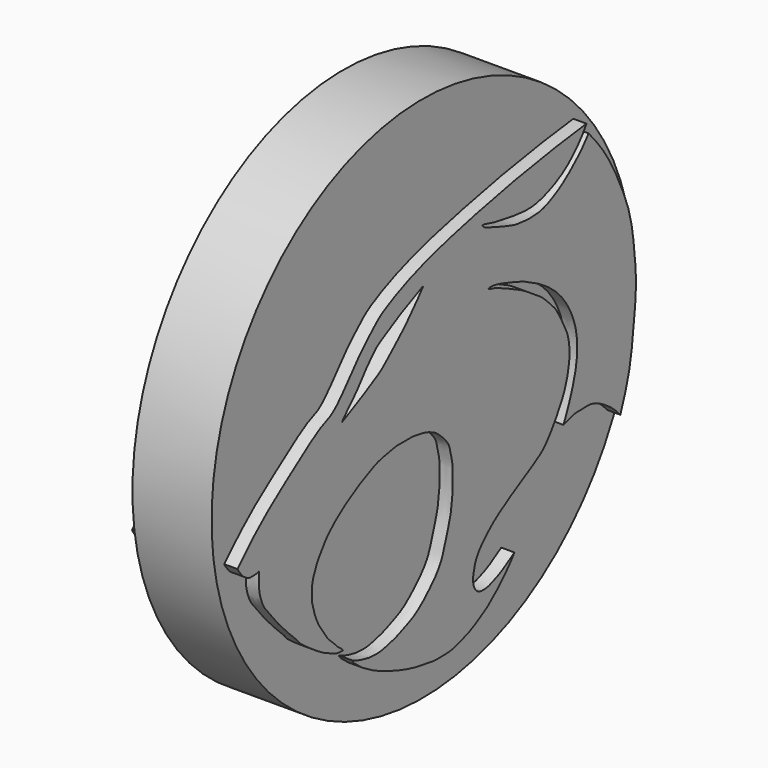
from build123d import *

# Parameters (mm, degrees)
F1_DEPTH = 10
F0_R     = 50
F2_DEPTH = 7.5


with BuildPart() as f1:
    # F0 (on Right) → F1 (new body, symmetric)
    with BuildSketch(Plane.YZ):
        with BuildLine():
            add(Edge.make_bspline(
                [(-46.9949096441, -8.5397260264), (-45.1865095141, -6.6783093338), (-41.3811869914, -2.7614268105), (-33.8168696929, 2.6229560464), (-27.0786754137, 7.4963951549), (-23.8854254535, 8.0069827377), (-18.1040834328, 15.7661420769), (-14.84453873, 18.3623675441), (-13.1457833889, 20.2496303167), (-3.9805020786, 24.6543515328), (10.5653984604, 28.0217982333), (20.4604847506, 30.0118615667), (30.6736597016, 31.5866929761), (34.2451205098, 32.0004458973), (35.716611892, 32.1709178388)],
                knots=[0, 0, 0, 0, 0.0860057309, 0.1809773952, 0.2664828043, 0.3207983808, 0.4139995245, 0.476414252, 0.5219500164, 0.6167002951, 0.7366074547, 0.8357417736, 0.9323233328, 1, 1, 1, 1], degree=3))
            add(Edge.make_bspline(
                [(-41.8407022953, -10.9764672816), (-42.011972947, -11.0300869894), (-42.3824446137, -11.1460705647), (-43.1120650038, -11.2119420008), (-44.1300690633, -11.2340797485), (-44.7999854131, -10.9120550587), (-45.5991673999, -10.4202866341), (-46.1582686433, -9.7777046573), (-46.7759576918, -8.9904138866), (-46.9309963826, -8.6712842552), (-46.9949096441, -8.5397260264)],
                knots=[0, 0, 0, 0, 0.1052085384, 0.2275742058, 0.3692557355, 0.4915784343, 0.6265586138, 0.76017704, 0.9011352104, 1, 1, 1, 1], degree=3))
            add(Edge.make_bspline(
                [(-41.8407022953, -10.9764672816), (-41.8341249623, -11.3176582505), (-41.81874387, -12.115533277), (-41.9665438521, -14.0897429419), (-41.3736082418, -16.1839885258), (-40.6133392349, -17.7397304615), (-38.723592279, -19.9236732982), (-36.3733657196, -22.8487490511), (-32.5591001938, -26.3641430483), (-32.321126962, -26.941816602), (-29.9160617333, -28.7092923548), (-28.2281948479, -29.8134951767), (-26.71312224, -30.7951957621), (-25.188508354, -31.5000404809), (-23.9332516763, -32.0096383535), (-23.3031822027, -32.2566901232), (-21.9142737556, -32.3418391375), (-21.9519048395, -32.2647518571), (-21.9569356223, -32.2544462979)],
                knots=[0, 0, 0, 0, 0.0499044046, 0.1167014423, 0.1864196679, 0.2484382866, 0.326668276, 0.4243014673, 0.5290578789, 0.5679826782, 0.6471835664, 0.7177942679, 0.780629253, 0.8428831749, 0.8964565763, 0.9398507216, 0.9919588297, 1, 1, 1, 1], degree=3))
            add(Edge.make_bspline(
                [(-21.9569356223, -32.2544462979), (-22.0136745442, -32.1863039563), (-22.1492778298, -32.0234470478), (-22.5825677398, -31.6949618212), (-23.0405521358, -31.2790082979), (-23.3785394305, -31.1205890044), (-23.8355350598, -30.5324852979), (-24.624392841, -29.8022330094), (-25.7039450212, -28.8000723377), (-26.4684137836, -27.5631120302), (-27.0132402918, -26.7726727204), (-27.7291225993, -25.8001754062), (-28.3747986939, -24.4195652907), (-28.7737260133, -23.373235961), (-29.0848020083, -22.0518247959), (-29.3961128286, -21.1999266746), (-29.3569727633, -19.8008486065), (-29.3884260537, -18.6760795067), (-29.0361968009, -17.1819238611), (-28.4992816351, -16.0619614135), (-28.160346331, -15.1830376446), (-27.5569693717, -14.2220358383), (-27.0381457977, -13.4867578842), (-26.4768234988, -12.7039040697), (-25.7692610413, -11.7896975651), (-24.7946939121, -10.8650188003), (-23.846876871, -9.9467431325), (-22.8594563733, -9.2314595342), (-21.9693262388, -8.5729547262), (-21.4976428975, -8.2438144102), (-21.2784744799, -8.0908788368)],
                knots=[0, 0, 0, 0, 0.0188209692, 0.0449812082, 0.0725585715, 0.0936804078, 0.1230009467, 0.1597912255, 0.2028683891, 0.245081177, 0.2793331757, 0.3178191472, 0.3610684489, 0.3989553008, 0.4391615023, 0.4730176081, 0.5136965394, 0.5516728843, 0.5948997611, 0.6340909365, 0.6682031277, 0.7053225622, 0.7388019377, 0.7729702597, 0.8107617658, 0.8516382959, 0.8921208689, 0.931070976, 0.967972019, 1, 1, 1, 1], degree=3))
            add(Edge.make_bspline(
                [(-19.8450013995, -34.8139628768), (-19.7185062407, -34.876218507), (-19.4131390432, -35.0265074786), (-18.5229801629, -35.3862704112), (-17.7755388362, -35.5872702932), (-16.7215347537, -35.8508575759), (-15.4754018478, -36.0953253551), (-13.1345803964, -36.1753048072), (-11.3713684924, -35.6641192829), (-9.5819381115, -35.3145024709), (-7.4454097997, -34.3577378191), (-4.4407839955, -33.2460274408), (-1.2201776421, -30.1080537341), (-0.0072972184, -28.8194670373), (1.2588261701, -27.0402333734), (2.0411797535, -24.8251535183), (2.8348032477, -22.3050380313), (3.1735542516, -21.187636971), (3.6039520772, -19.767424856), (3.7348464629, -18.2911424217), (4.0799028106, -16.3076924965), (3.9971592551, -14.350355498), (4.0823738465, -12.6014811177), (3.8443785981, -10.8841740809), (3.4697242808, -9.8407844279), (3.3507827794, -8.6676684448), (2.7687866794, -7.6169503203), (1.8772837154, -6.5367323036), (0.80556868, -5.6014558866), (0.0269472162, -4.8969374244), (-0.8413586407, -4.4904215601), (-2.0463112139, -3.9315785347), (-3.2719651418, -3.6582041807), (-4.3271580596, -3.5137260985), (-5.4392375343, -3.2860383792), (-6.4861829662, -3.3181433104), (-7.4816138182, -3.2973277432), (-8.3784882725, -3.3469460023), (-9.2792585021, -3.2800958522), (-10.6107892085, -3.5404966146), (-11.8290268646, -3.7967407101), (-13.2195119888, -4.0283952455), (-14.5629692873, -4.501119684), (-15.344670968, -4.9222894638), (-16.1960259502, -5.3223362366), (-17.3693464423, -5.8571471987), (-18.3101065883, -6.2931804581), (-19.3417553441, -6.8794948043), (-20.2587019395, -7.485975121), (-20.934856869, -7.8870534136), (-21.2784744799, -8.0908788368)],
                knots=[0, 0, 0, 0, 0.012029875, 0.0290408682, 0.0447557759, 0.0625611461, 0.0825413489, 0.1091807464, 0.1330956428, 0.1564029344, 0.1828033795, 0.2147004871, 0.2514677921, 0.2750643316, 0.3001022695, 0.3276141276, 0.3558461959, 0.3749281161, 0.3957056566, 0.4172156899, 0.4420273442, 0.4666244715, 0.4899965406, 0.5128366047, 0.5312898552, 0.5499416442, 0.5689812673, 0.5898124568, 0.6108021246, 0.6285487242, 0.6455553525, 0.6657543574, 0.685439015, 0.7035318223, 0.7220993031, 0.7400744675, 0.7575510807, 0.7739904803, 0.7906056376, 0.8108640343, 0.8305960109, 0.8515182006, 0.872366538, 0.8887355969, 0.905658033, 0.9255134602, 0.9435624233, 0.9624758392, 0.9809304615, 1, 1, 1, 1], degree=3))
            add(Edge.make_bspline(
                [(-19.8450013995, -34.8139628768), (-19.7374205695, -35.0119797403), (-19.4855166215, -35.4756425477), (-18.3328557613, -36.2345459846), (-17.8879734461, -36.7258473877), (-16.8877806273, -37.3571387981), (-15.2585990412, -38.3724478729), (-13.5689798665, -39.1537790402), (-11.445609387, -39.9767051031), (-9.1417842875, -40.9378405143), (-7.0374148706, -41.5050327916), (-5.1388028864, -42.0891794865), (-3.1148436798, -42.3305825093), (-1.08222467, -42.7488068974), (-0.2761757803, -42.7699033821), (0.6027997816, -42.8386778123), (1.7602135125, -42.7853124971), (3.359095902, -42.7931217077), (5.0847187776, -42.3395543841), (6.3524551814, -41.9462806805), (7.9519694684, -41.3531608693), (9.1844755593, -40.7696993371), (10.5804546591, -39.9187123268), (12.2465876355, -38.9979108648), (13.0258978883, -38.2185004738), (14.3370916994, -37.281124161), (15.43573145, -36.1013590703), (16.3188868066, -35.2668100957), (17.2943699823, -34.1682907241), (18.0223190994, -33.3146172614), (18.440097497, -32.7379976379), (18.6446215957, -32.4557125568)],
                knots=[0, 0, 0, 0, 0.0244335988, 0.0572120516, 0.0805070921, 0.11057214, 0.1500259365, 0.1889626865, 0.2317141018, 0.2767418357, 0.3186080564, 0.3582219123, 0.3994665181, 0.439924396, 0.4651710096, 0.4910340954, 0.5215131305, 0.5576413458, 0.5953146357, 0.6283696191, 0.6649861824, 0.6981618293, 0.734713303, 0.7735246182, 0.8033723873, 0.8390794333, 0.8751639168, 0.9066429836, 0.940777944, 0.9710077455, 1, 1, 1, 1], degree=3))
            add(Edge.make_bspline(
                [(18.6446215957, -32.4557125568), (18.1953846299, -32.7050513514), (17.330794032, -33.1849227642), (16.2962930899, -33.9352074746), (14.9144349909, -34.6946790213), (13.5449930871, -35.1990856231), (12.5233291405, -35.6322351656), (11.0693696923, -35.7488526863), (10.1946596303, -35.6294285886), (9.3598250953, -34.9906974596), (8.9115414769, -34.0801600591), (8.762968482, -32.7446972737), (9.0998633156, -31.3510082116), (9.5130426733, -29.6586909186), (11.159237953, -27.6082233983), (12.3126544745, -26.5485399508), (13.7743125225, -25.2177193296), (15.9854579261, -23.7582333283), (18.231222294, -22.3711280334), (20.9542508803, -20.8244624395), (24.0834920949, -19.0748692722), (25.8887959776, -17.7335162691), (28.0626115058, -14.826855297), (29.6492980848, -12.0869837947), (30.7670293343, -9.9187941609), (31.6515394023, -6.4767904303), (31.7378659034, -4.0472404692), (31.4764003558, -1.6959110666), (30.7428376608, 0.0154886073), (29.68247586, 2.0514555196), (28.5453626857, 4.1403951782), (27.1601940652, 5.5303279084), (25.4615601001, 7.3101472095), (23.8516714201, 8.3687035611), (22.1212132433, 9.4859313867), (20.9820241673, 10.3111072803), (18.968921412, 11.3297847977), (17.3550180861, 12.1219396728), (15.3978939833, 12.9410398286), (14.1863109635, 13.5957187088), (12.0297375524, 14.0081292044), (12.8251158473, 14.1270221143), (13.1402416155, 14.1741270199)],
                knots=[0, 0, 0, 0, 0.0220602841, 0.0424566892, 0.0650940063, 0.0867880185, 0.1059413026, 0.1273947334, 0.1442914998, 0.1620751118, 0.1800709144, 0.2006498195, 0.2220505365, 0.2459281452, 0.2748240685, 0.2975677103, 0.3225380213, 0.3518773215, 0.3811895627, 0.4134275014, 0.447274674, 0.4744080727, 0.5084478962, 0.540604049, 0.5688867413, 0.6024876646, 0.6310180533, 0.6581801038, 0.6826891632, 0.7100233831, 0.737688893, 0.7630597385, 0.7910557539, 0.8164707729, 0.8418783121, 0.8635415208, 0.8901993122, 0.9149924241, 0.9405843502, 0.9637477986, 0.9856370197, 1, 1, 1, 1], degree=3))
            add(Edge.make_bspline(
                [(13.1402416155, 14.1741270199), (13.5389705225, 14.1343313882), (14.5383684854, 14.0345852384), (17.536939577, 13.0357277274), (20.5471290032, 12.0878841058), (25.2322332229, 9.7508079751), (29.8245938325, 6.237300673), (33.4950401396, 0.0612717381), (33.8292015977, -7.2282981918), (31.1266285063, -14.0718313867), (30.4923876434, -15.4376312004), (30.2781797945, -15.8989150077)],
                knots=[0, 0, 0, 0, 0.0618421525, 0.1550048671, 0.2513291511, 0.3717151644, 0.500292753, 0.6398972142, 0.7851435176, 0.9274345953, 1, 1, 1, 1], degree=3))
            add(Edge.make_bspline(
                [(30.2781797945, -15.8989150077), (30.7351845425, -15.7711004615), (31.6386675293, -15.5184154105), (32.9391592278, -15.0095838303), (34.2909482899, -15.0958970933), (35.9953581484, -14.9601762331), (37.3922505182, -15.1273815162), (39.0462535643, -15.8608992827), (40.4687101653, -16.791159372), (41.7184321478, -17.6571406388), (43.0158964071, -18.8920748001), (43.5187021893, -19.4449681858), (43.7377616763, -19.6858495474)],
                knots=[0, 0, 0, 0, 0.0973416727, 0.1924412068, 0.2872999581, 0.3933431061, 0.4903060247, 0.5992160891, 0.7056690593, 0.8073651993, 0.9160739949, 1, 1, 1, 1], degree=3))
            add(Edge.make_bspline(
                [(43.7377616763, -19.6858495474), (43.9491483272, -19.1489277247), (44.4632616117, -17.8430805314), (45.8522664238, -13.6103274199), (46.5234941705, -9.440423961), (46.9024362294, -5.8187394647), (47.6138354218, -0.0713023415), (47.3256670645, 3.8872736921), (47.0620083598, 6.2735597037), (46.6434870825, 10.1299675639), (45.693950312, 14.2216928463), (43.7618611505, 18.7690680823), (41.7199535731, 22.9829161023), (39.2141360272, 26.8593902987), (36.9838699889, 29.4603870247), (36.5444757044, 30.0240926445), (36.2193994224, 30.3401611745)],
                knots=[0, 0, 0, 0, 0.0513976966, 0.1297992163, 0.2066567199, 0.2781448668, 0.3680218632, 0.4418347281, 0.4989467141, 0.5711428306, 0.6482689238, 0.7307151072, 0.8117709017, 0.8930870947, 0.959897405, 1, 1, 1, 1], degree=3))
            add(Edge.make_bspline(
                [(36.2193994224, 30.3401611745), (36.0955725051, 30.174365429), (35.8042581536, 29.7843155015), (34.9728162389, 28.8429843355), (34.1054792284, 27.8222854435), (32.7741760598, 26.6918428642), (31.5277537535, 25.5546749553), (30.4453986276, 24.8020606945), (29.4842049906, 24.0717685989), (28.0110456649, 23.3115962987), (27.0007631839, 22.7747181366), (25.9324857156, 22.3183421982), (24.4468152171, 21.9256787529), (23.6933753794, 21.9238878114), (22.0051721016, 21.7782091124), (20.6215556699, 21.9419398796), (19.0873190999, 22.0563357923), (17.9169140379, 22.4197378118), (16.3973641299, 22.8666752212), (15.2397031076, 23.2927070867), (13.7822352299, 23.7804674313), (12.5352343802, 24.3429645581), (11.5414233419, 24.5451902743), (11.0071554643, 25.2400262227), (11.0923464924, 25.2170152762), (11.108558625, 25.2126362175)],
                knots=[0, 0, 0, 0, 0.0326235924, 0.0767500385, 0.1232846075, 0.1758947527, 0.2278614499, 0.2729607469, 0.3168212075, 0.3678081921, 0.4103227643, 0.4535931572, 0.5019309494, 0.5372271229, 0.5878464721, 0.6360920108, 0.6845589309, 0.7290215333, 0.7784839383, 0.8231480999, 0.872277162, 0.9188528733, 0.9603230296, 0.9924493421, 1, 1, 1, 1], degree=3))
            add(Edge.make_bspline(
                [(11.50354743, 25.2126362175), (11.371884495, 25.2126362175), (11.24022156, 25.2126362175), (11.108558625, 25.2126362175)],
                knots=[0, 0, 0, 0, 0.3949888051, 0.3949888051, 0.3949888051, 0.3949888051], degree=3))
            add(Edge.make_bspline(
                [(11.50354743, 25.2126362175), (12.1488225383, 25.0202572335), (13.7390011195, 24.5461696144), (18.5122197212, 23.7459793801), (22.8771198181, 23.273894677), (26.9396832203, 24.5059195985), (31.0969608273, 26.5800325804), (34.5159444958, 30.2319395237), (35.3732745621, 31.6164565121), (35.716611892, 32.1709178388)],
                knots=[0, 0, 0, 0, 0.109447912, 0.2697170915, 0.423842517, 0.5713297954, 0.7302734815, 0.8919818792, 1, 1, 1, 1], degree=3))
        make_face()
        with BuildLine():
            add(Edge.make_bspline(
                [(-22.3005246371, 5.8597414754), (-21.6704981292, 6.2007407036), (-20.3982496603, 6.8893398983), (-18.3746367027, 7.6701833835), (-15.3910528829, 9.4801814784), (-12.9991838243, 10.6211384785), (-10.5050218078, 12.9422008965), (-7.4843414319, 15.5477724742), (-4.1750092818, 19.2608170034), (-3.2555082612, 20.4126410189), (-2.9000339564, 20.8579301834)],
                knots=[0, 0, 0, 0, 0.1045990321, 0.2112227927, 0.3444868014, 0.4624142035, 0.5920493758, 0.7395321584, 0.8993044892, 1, 1, 1, 1], degree=3))
            add(Edge.make_bspline(
                [(-22.3005246371, 5.8597414754), (-21.9569356223, 6.2712324587), (-21.1938459445, 7.1851281546), (-19.2936927393, 8.9213865468), (-17.7561349734, 10.8728603966), (-16.0781122848, 13.0372764484), (-15.0200472377, 14.0082165351), (-13.9894040877, 15.2540632317), (-11.0086034561, 16.78653144), (-8.1805311228, 18.4289380869), (-5.9645558468, 19.4689932403), (-3.9755613963, 20.3704675879), (-2.9000339564, 20.8579301834)],
                knots=[0, 0, 0, 0, 0.0834685803, 0.1853784879, 0.2887882933, 0.3939598593, 0.4696009783, 0.5486553954, 0.6658142663, 0.7826442126, 0.8824671866, 1, 1, 1, 1], degree=3))
        make_face(mode=Mode.SUBTRACT)
    extrude(amount=F1_DEPTH, both=True)

    # F0 (on Right) → F2 (join, symmetric)
    with BuildSketch(Plane.YZ):
        Circle(F0_R)
        with BuildLine():
            add(Edge.make_bspline(
                [(-41.8407022953, -10.9764672816), (-42.011972947, -11.0300869894), (-42.3824446137, -11.1460705647), (-43.1120650038, -11.2119420008), (-44.1300690633, -11.2340797485), (-44.7999854131, -10.9120550587), (-45.5991673999, -10.4202866341), (-46.1582686433, -9.7777046573), (-46.7759576918, -8.9904138866), (-46.9309963826, -8.6712842552), (-46.9949096441, -8.5397260264)],
                knots=[0, 0, 0, 0, 0.1052085384, 0.2275742058, 0.3692557355, 0.4915784343, 0.6265586138, 0.76017704, 0.9011352104, 1, 1, 1, 1], degree=3))
            add(Edge.make_bspline(
                [(-46.9949096441, -8.5397260264), (-45.1865095141, -6.6783093338), (-41.3811869914, -2.7614268105), (-33.8168696929, 2.6229560464), (-27.0786754137, 7.4963951549), (-23.8854254535, 8.0069827377), (-18.1040834328, 15.7661420769), (-14.84453873, 18.3623675441), (-13.1457833889, 20.2496303167), (-3.9805020786, 24.6543515328), (10.5653984604, 28.0217982333), (20.4604847506, 30.0118615667), (30.6736597016, 31.5866929761), (34.2451205098, 32.0004458973), (35.716611892, 32.1709178388)],
                knots=[0, 0, 0, 0, 0.0860057309, 0.1809773952, 0.2664828043, 0.3207983808, 0.4139995245, 0.476414252, 0.5219500164, 0.6167002951, 0.7366074547, 0.8357417736, 0.9323233328, 1, 1, 1, 1], degree=3))
            add(Edge.make_bspline(
                [(11.50354743, 25.2126362175), (12.1488225383, 25.0202572335), (13.7390011195, 24.5461696144), (18.5122197212, 23.7459793801), (22.8771198181, 23.273894677), (26.9396832203, 24.5059195985), (31.0969608273, 26.5800325804), (34.5159444958, 30.2319395237), (35.3732745621, 31.6164565121), (35.716611892, 32.1709178388)],
                knots=[0, 0, 0, 0, 0.109447912, 0.2697170915, 0.423842517, 0.5713297954, 0.7302734815, 0.8919818792, 1, 1, 1, 1], degree=3))
            add(Edge.make_bspline(
                [(11.50354743, 25.2126362175), (11.371884495, 25.2126362175), (11.24022156, 25.2126362175), (11.108558625, 25.2126362175)],
                knots=[0, 0, 0, 0, 0.3949888051, 0.3949888051, 0.3949888051, 0.3949888051], degree=3))
            add(Edge.make_bspline(
                [(36.2193994224, 30.3401611745), (36.0955725051, 30.174365429), (35.8042581536, 29.7843155015), (34.9728162389, 28.8429843355), (34.1054792284, 27.8222854435), (32.7741760598, 26.6918428642), (31.5277537535, 25.5546749553), (30.4453986276, 24.8020606945), (29.4842049906, 24.0717685989), (28.0110456649, 23.3115962987), (27.0007631839, 22.7747181366), (25.9324857156, 22.3183421982), (24.4468152171, 21.9256787529), (23.6933753794, 21.9238878114), (22.0051721016, 21.7782091124), (20.6215556699, 21.9419398796), (19.0873190999, 22.0563357923), (17.9169140379, 22.4197378118), (16.3973641299, 22.8666752212), (15.2397031076, 23.2927070867), (13.7822352299, 23.7804674313), (12.5352343802, 24.3429645581), (11.5414233419, 24.5451902743), (11.0071554643, 25.2400262227), (11.0923464924, 25.2170152762), (11.108558625, 25.2126362175)],
                knots=[0, 0, 0, 0, 0.0326235924, 0.0767500385, 0.1232846075, 0.1758947527, 0.2278614499, 0.2729607469, 0.3168212075, 0.3678081921, 0.4103227643, 0.4535931572, 0.5019309494, 0.5372271229, 0.5878464721, 0.6360920108, 0.6845589309, 0.7290215333, 0.7784839383, 0.8231480999, 0.872277162, 0.9188528733, 0.9603230296, 0.9924493421, 1, 1, 1, 1], degree=3))
            add(Edge.make_bspline(
                [(43.7377616763, -19.6858495474), (43.9491483272, -19.1489277247), (44.4632616117, -17.8430805314), (45.8522664238, -13.6103274199), (46.5234941705, -9.440423961), (46.9024362294, -5.8187394647), (47.6138354218, -0.0713023415), (47.3256670645, 3.8872736921), (47.0620083598, 6.2735597037), (46.6434870825, 10.1299675639), (45.693950312, 14.2216928463), (43.7618611505, 18.7690680823), (41.7199535731, 22.9829161023), (39.2141360272, 26.8593902987), (36.9838699889, 29.4603870247), (36.5444757044, 30.0240926445), (36.2193994224, 30.3401611745)],
                knots=[0, 0, 0, 0, 0.0513976966, 0.1297992163, 0.2066567199, 0.2781448668, 0.3680218632, 0.4418347281, 0.4989467141, 0.5711428306, 0.6482689238, 0.7307151072, 0.8117709017, 0.8930870947, 0.959897405, 1, 1, 1, 1], degree=3))
            add(Edge.make_bspline(
                [(30.2781797945, -15.8989150077), (30.7351845425, -15.7711004615), (31.6386675293, -15.5184154105), (32.9391592278, -15.0095838303), (34.2909482899, -15.0958970933), (35.9953581484, -14.9601762331), (37.3922505182, -15.1273815162), (39.0462535643, -15.8608992827), (40.4687101653, -16.791159372), (41.7184321478, -17.6571406388), (43.0158964071, -18.8920748001), (43.5187021893, -19.4449681858), (43.7377616763, -19.6858495474)],
                knots=[0, 0, 0, 0, 0.0973416727, 0.1924412068, 0.2872999581, 0.3933431061, 0.4903060247, 0.5992160891, 0.7056690593, 0.8073651993, 0.9160739949, 1, 1, 1, 1], degree=3))
            add(Edge.make_bspline(
                [(13.1402416155, 14.1741270199), (13.5389705225, 14.1343313882), (14.5383684854, 14.0345852384), (17.536939577, 13.0357277274), (20.5471290032, 12.0878841058), (25.2322332229, 9.7508079751), (29.8245938325, 6.237300673), (33.4950401396, 0.0612717381), (33.8292015977, -7.2282981918), (31.1266285063, -14.0718313867), (30.4923876434, -15.4376312004), (30.2781797945, -15.8989150077)],
                knots=[0, 0, 0, 0, 0.0618421525, 0.1550048671, 0.2513291511, 0.3717151644, 0.500292753, 0.6398972142, 0.7851435176, 0.9274345953, 1, 1, 1, 1], degree=3))
            add(Edge.make_bspline(
                [(18.6446215957, -32.4557125568), (18.1953846299, -32.7050513514), (17.330794032, -33.1849227642), (16.2962930899, -33.9352074746), (14.9144349909, -34.6946790213), (13.5449930871, -35.1990856231), (12.5233291405, -35.6322351656), (11.0693696923, -35.7488526863), (10.1946596303, -35.6294285886), (9.3598250953, -34.9906974596), (8.9115414769, -34.0801600591), (8.762968482, -32.7446972737), (9.0998633156, -31.3510082116), (9.5130426733, -29.6586909186), (11.159237953, -27.6082233983), (12.3126544745, -26.5485399508), (13.7743125225, -25.2177193296), (15.9854579261, -23.7582333283), (18.231222294, -22.3711280334), (20.9542508803, -20.8244624395), (24.0834920949, -19.0748692722), (25.8887959776, -17.7335162691), (28.0626115058, -14.826855297), (29.6492980848, -12.0869837947), (30.7670293343, -9.9187941609), (31.6515394023, -6.4767904303), (31.7378659034, -4.0472404692), (31.4764003558, -1.6959110666), (30.7428376608, 0.0154886073), (29.68247586, 2.0514555196), (28.5453626857, 4.1403951782), (27.1601940652, 5.5303279084), (25.4615601001, 7.3101472095), (23.8516714201, 8.3687035611), (22.1212132433, 9.4859313867), (20.9820241673, 10.3111072803), (18.968921412, 11.3297847977), (17.3550180861, 12.1219396728), (15.3978939833, 12.9410398286), (14.1863109635, 13.5957187088), (12.0297375524, 14.0081292044), (12.8251158473, 14.1270221143), (13.1402416155, 14.1741270199)],
                knots=[0, 0, 0, 0, 0.0220602841, 0.0424566892, 0.0650940063, 0.0867880185, 0.1059413026, 0.1273947334, 0.1442914998, 0.1620751118, 0.1800709144, 0.2006498195, 0.2220505365, 0.2459281452, 0.2748240685, 0.2975677103, 0.3225380213, 0.3518773215, 0.3811895627, 0.4134275014, 0.447274674, 0.4744080727, 0.5084478962, 0.540604049, 0.5688867413, 0.6024876646, 0.6310180533, 0.6581801038, 0.6826891632, 0.7100233831, 0.737688893, 0.7630597385, 0.7910557539, 0.8164707729, 0.8418783121, 0.8635415208, 0.8901993122, 0.9149924241, 0.9405843502, 0.9637477986, 0.9856370197, 1, 1, 1, 1], degree=3))
            add(Edge.make_bspline(
                [(-19.8450013995, -34.8139628768), (-19.7374205695, -35.0119797403), (-19.4855166215, -35.4756425477), (-18.3328557613, -36.2345459846), (-17.8879734461, -36.7258473877), (-16.8877806273, -37.3571387981), (-15.2585990412, -38.3724478729), (-13.5689798665, -39.1537790402), (-11.445609387, -39.9767051031), (-9.1417842875, -40.9378405143), (-7.0374148706, -41.5050327916), (-5.1388028864, -42.0891794865), (-3.1148436798, -42.3305825093), (-1.08222467, -42.7488068974), (-0.2761757803, -42.7699033821), (0.6027997816, -42.8386778123), (1.7602135125, -42.7853124971), (3.359095902, -42.7931217077), (5.0847187776, -42.3395543841), (6.3524551814, -41.9462806805), (7.9519694684, -41.3531608693), (9.1844755593, -40.7696993371), (10.5804546591, -39.9187123268), (12.2465876355, -38.9979108648), (13.0258978883, -38.2185004738), (14.3370916994, -37.281124161), (15.43573145, -36.1013590703), (16.3188868066, -35.2668100957), (17.2943699823, -34.1682907241), (18.0223190994, -33.3146172614), (18.440097497, -32.7379976379), (18.6446215957, -32.4557125568)],
                knots=[0, 0, 0, 0, 0.0244335988, 0.0572120516, 0.0805070921, 0.11057214, 0.1500259365, 0.1889626865, 0.2317141018, 0.2767418357, 0.3186080564, 0.3582219123, 0.3994665181, 0.439924396, 0.4651710096, 0.4910340954, 0.5215131305, 0.5576413458, 0.5953146357, 0.6283696191, 0.6649861824, 0.6981618293, 0.734713303, 0.7735246182, 0.8033723873, 0.8390794333, 0.8751639168, 0.9066429836, 0.940777944, 0.9710077455, 1, 1, 1, 1], degree=3))
            add(Edge.make_bspline(
                [(-19.8450013995, -34.8139628768), (-19.7185062407, -34.876218507), (-19.4131390432, -35.0265074786), (-18.5229801629, -35.3862704112), (-17.7755388362, -35.5872702932), (-16.7215347537, -35.8508575759), (-15.4754018478, -36.0953253551), (-13.1345803964, -36.1753048072), (-11.3713684924, -35.6641192829), (-9.5819381115, -35.3145024709), (-7.4454097997, -34.3577378191), (-4.4407839955, -33.2460274408), (-1.2201776421, -30.1080537341), (-0.0072972184, -28.8194670373), (1.2588261701, -27.0402333734), (2.0411797535, -24.8251535183), (2.8348032477, -22.3050380313), (3.1735542516, -21.187636971), (3.6039520772, -19.767424856), (3.7348464629, -18.2911424217), (4.0799028106, -16.3076924965), (3.9971592551, -14.350355498), (4.0823738465, -12.6014811177), (3.8443785981, -10.8841740809), (3.4697242808, -9.8407844279), (3.3507827794, -8.6676684448), (2.7687866794, -7.6169503203), (1.8772837154, -6.5367323036), (0.80556868, -5.6014558866), (0.0269472162, -4.8969374244), (-0.8413586407, -4.4904215601), (-2.0463112139, -3.9315785347), (-3.2719651418, -3.6582041807), (-4.3271580596, -3.5137260985), (-5.4392375343, -3.2860383792), (-6.4861829662, -3.3181433104), (-7.4816138182, -3.2973277432), (-8.3784882725, -3.3469460023), (-9.2792585021, -3.2800958522), (-10.6107892085, -3.5404966146), (-11.8290268646, -3.7967407101), (-13.2195119888, -4.0283952455), (-14.5629692873, -4.501119684), (-15.344670968, -4.9222894638), (-16.1960259502, -5.3223362366), (-17.3693464423, -5.8571471987), (-18.3101065883, -6.2931804581), (-19.3417553441, -6.8794948043), (-20.2587019395, -7.485975121), (-20.934856869, -7.8870534136), (-21.2784744799, -8.0908788368)],
                knots=[0, 0, 0, 0, 0.012029875, 0.0290408682, 0.0447557759, 0.0625611461, 0.0825413489, 0.1091807464, 0.1330956428, 0.1564029344, 0.1828033795, 0.2147004871, 0.2514677921, 0.2750643316, 0.3001022695, 0.3276141276, 0.3558461959, 0.3749281161, 0.3957056566, 0.4172156899, 0.4420273442, 0.4666244715, 0.4899965406, 0.5128366047, 0.5312898552, 0.5499416442, 0.5689812673, 0.5898124568, 0.6108021246, 0.6285487242, 0.6455553525, 0.6657543574, 0.685439015, 0.7035318223, 0.7220993031, 0.7400744675, 0.7575510807, 0.7739904803, 0.7906056376, 0.8108640343, 0.8305960109, 0.8515182006, 0.872366538, 0.8887355969, 0.905658033, 0.9255134602, 0.9435624233, 0.9624758392, 0.9809304615, 1, 1, 1, 1], degree=3))
            add(Edge.make_bspline(
                [(-21.9569356223, -32.2544462979), (-22.0136745442, -32.1863039563), (-22.1492778298, -32.0234470478), (-22.5825677398, -31.6949618212), (-23.0405521358, -31.2790082979), (-23.3785394305, -31.1205890044), (-23.8355350598, -30.5324852979), (-24.624392841, -29.8022330094), (-25.7039450212, -28.8000723377), (-26.4684137836, -27.5631120302), (-27.0132402918, -26.7726727204), (-27.7291225993, -25.8001754062), (-28.3747986939, -24.4195652907), (-28.7737260133, -23.373235961), (-29.0848020083, -22.0518247959), (-29.3961128286, -21.1999266746), (-29.3569727633, -19.8008486065), (-29.3884260537, -18.6760795067), (-29.0361968009, -17.1819238611), (-28.4992816351, -16.0619614135), (-28.160346331, -15.1830376446), (-27.5569693717, -14.2220358383), (-27.0381457977, -13.4867578842), (-26.4768234988, -12.7039040697), (-25.7692610413, -11.7896975651), (-24.7946939121, -10.8650188003), (-23.846876871, -9.9467431325), (-22.8594563733, -9.2314595342), (-21.9693262388, -8.5729547262), (-21.4976428975, -8.2438144102), (-21.2784744799, -8.0908788368)],
                knots=[0, 0, 0, 0, 0.0188209692, 0.0449812082, 0.0725585715, 0.0936804078, 0.1230009467, 0.1597912255, 0.2028683891, 0.245081177, 0.2793331757, 0.3178191472, 0.3610684489, 0.3989553008, 0.4391615023, 0.4730176081, 0.5136965394, 0.5516728843, 0.5948997611, 0.6340909365, 0.6682031277, 0.7053225622, 0.7388019377, 0.7729702597, 0.8107617658, 0.8516382959, 0.8921208689, 0.931070976, 0.967972019, 1, 1, 1, 1], degree=3))
            add(Edge.make_bspline(
                [(-41.8407022953, -10.9764672816), (-41.8341249623, -11.3176582505), (-41.81874387, -12.115533277), (-41.9665438521, -14.0897429419), (-41.3736082418, -16.1839885258), (-40.6133392349, -17.7397304615), (-38.723592279, -19.9236732982), (-36.3733657196, -22.8487490511), (-32.5591001938, -26.3641430483), (-32.321126962, -26.941816602), (-29.9160617333, -28.7092923548), (-28.2281948479, -29.8134951767), (-26.71312224, -30.7951957621), (-25.188508354, -31.5000404809), (-23.9332516763, -32.0096383535), (-23.3031822027, -32.2566901232), (-21.9142737556, -32.3418391375), (-21.9519048395, -32.2647518571), (-21.9569356223, -32.2544462979)],
                knots=[0, 0, 0, 0, 0.0499044046, 0.1167014423, 0.1864196679, 0.2484382866, 0.326668276, 0.4243014673, 0.5290578789, 0.5679826782, 0.6471835664, 0.7177942679, 0.780629253, 0.8428831749, 0.8964565763, 0.9398507216, 0.9919588297, 1, 1, 1, 1], degree=3))
        make_face(mode=Mode.SUBTRACT)
    extrude(amount=F2_DEPTH, both=True)


solid = f1.part
